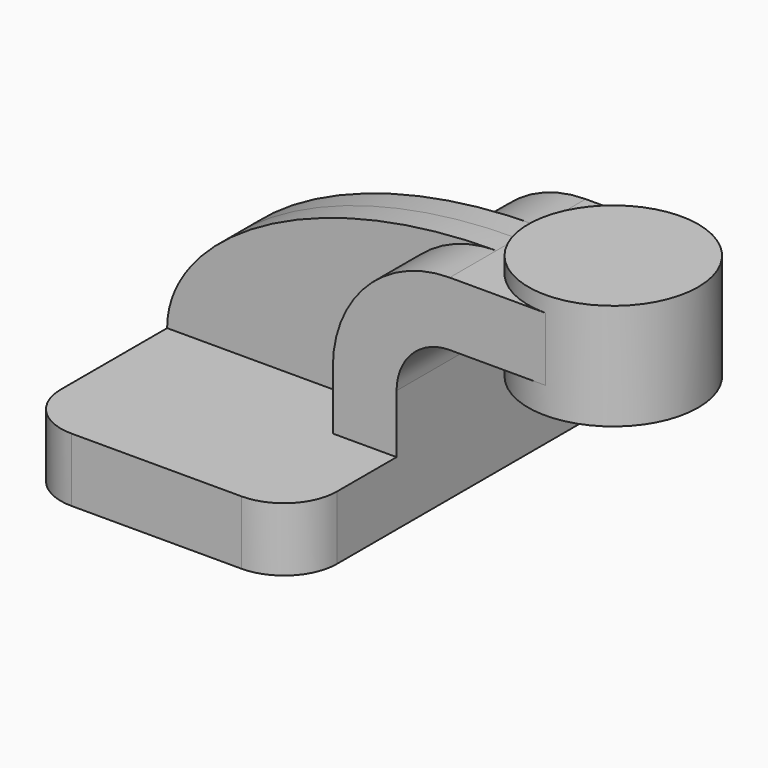
from build123d import *

# Parameters (mm, degrees)
F1_DEPTH = 63.5
F0_W     = 25.4
F0_H     = 19.05
F2_DEPTH = 25.4
F3_DEPTH = 7.9375
F5_R     = 15.875


with BuildPart() as f1:
    # F0 (on Front) → F1 (new body, symmetric)
    with BuildSketch(Plane.XZ):
        Polygon((41.275, -9.525), (41.275, 9.525), (22.225, 9.525), (-41.275, 9.525), (-41.275, -9.525), align=None)
    extrude(amount=F1_DEPTH, both=True)

    # F0 (on Front) → F2 (join, symmetric)
    with BuildSketch(Plane.XZ):
        Polygon((41.275, -9.525), (41.275, 9.525), (22.225, 9.525), (-41.275, 9.525), (-41.275, -9.525), align=None)
        with BuildLine():
            Line((22.225, 9.525), (41.275, 9.525))
            Line((41.275, 9.525), (41.275, 27.0002))
            ThreePointArc((41.275, 27.0002), (45.9246798487, 38.2255201513), (57.15, 42.8752))
            Line((57.15, 42.8752), (60.325, 42.8752))
            Line((60.325, 42.8752), (60.325, 61.9252))
            Line((60.325, 61.9252), (57.15, 61.9252))
            ThreePointArc((57.15, 61.9252), (32.4542956671, 51.6959043329), (22.225, 27.0002))
            Line((22.225, 27.0002), (22.225, 9.525))
        make_face()
        with Locations((73.025, 52.4002)):
            Rectangle(F0_W, F0_H)
    extrude(amount=F2_DEPTH, both=True)

    # F0 (on Front) → F3 (join, symmetric)
    with BuildSketch(Plane.XZ):
        with BuildLine():
            Line((-41.275, 9.525), (22.225, 9.525))
            Line((22.225, 9.525), (22.225, 27.0002))
            ThreePointArc((22.225, 27.0002), (32.4542956671, 51.6959043329), (57.15, 61.9252))
            add(Edge.make_bspline(
                [(-41.275, 9.525), (-41.275, 34.925), (0, 61.9252), (57.15, 61.9252)],
                knots=[0, 0, 0, 0, 111.5045361635, 111.5045361635, 111.5045361635, 111.5045361635], degree=3))
        make_face()
    extrude(amount=F3_DEPTH, both=True)

    # F0 (on Front) → F4 (revolve)
    with BuildSketch(Plane.XZ):
        Polygon((85.725, 61.9252), (85.725, 42.8752), (85.725, 34.925), (111.125, 34.925), (111.125, 66.675), (85.725, 66.675), align=None)
    revolve(axis=Axis((85.725, 0, 50.8), (0, 0, -1)))

    # F5
    f5_edges = [f1.edges().sort_by_distance(p)[0] for p in [
        (41.275, -63.5, 0),
        (-41.275, -63.5, 0),
        (-41.275, 63.5, 0),
        (41.275, 63.5, 0),
    ]]
    fillet(f5_edges, radius=F5_R)


solid = f1.part
